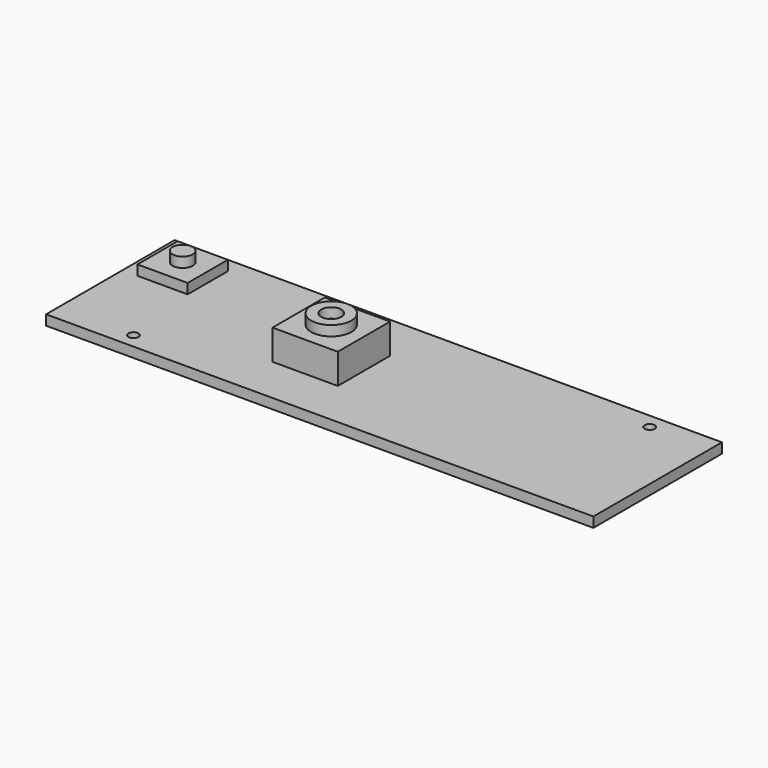
from build123d import *

# Parameters (mm, degrees)
BOX001_W          = 5
BOX001_H          = 5
BOX001_DEPTH      = 2
CYLINDER004_R     = 1
CYLINDER004_DEPTH = 3
CYLINDER002_R     = 0.5
CYLINDER002_DEPTH = 10
CYLINDER003_R     = 0.5
CYLINDER003_DEPTH = 10
BOX_W             = 54.5
BOX_H             = 16
BOX_DEPTH         = 1
BOX002_W          = 6.5
BOX002_H          = 6.5
BOX002_DEPTH      = 4
CYLINDER006_R     = 1
CYLINDER006_DEPTH = 5
CYLINDER005_R     = 2
CYLINDER005_DEPTH = 5


with BuildPart() as cube001:
    # Box001 → Box001 (new body)
    with BuildSketch(Plane(origin=(1.5, 9.5, 0), x_dir=(1, 0, 0), z_dir=(0, 0, 1))):
        with Locations((2.5, 2.5)):
            Rectangle(BOX001_W, BOX001_H)
    extrude(amount=BOX001_DEPTH)


with BuildPart() as cylinder004:
    # Cylinder004 → Cylinder004 (new body)
    with BuildSketch(Plane(origin=(4, 12, 0), x_dir=(1, 0, 0), z_dir=(0, 0, 1))):
        Circle(CYLINDER004_R)
    extrude(amount=CYLINDER004_DEPTH)


with BuildPart() as cylinder002:
    # Cylinder002 → Cylinder002 (new body)
    with BuildSketch(Plane(origin=(48.5, 14.5, 0), x_dir=(1, 0, 0), z_dir=(0, 0, 1))):
        Circle(CYLINDER002_R)
    extrude(amount=CYLINDER002_DEPTH)


with BuildPart() as fusion:
    # Cylinder003 → Cylinder003 (new body)
    with BuildSketch(Plane(origin=(7.5, 1.5, 0), x_dir=(1, 0, 0), z_dir=(0, 0, 1))):
        Circle(CYLINDER003_R)
    extrude(amount=CYLINDER003_DEPTH)

    # Fusion: union Cylinder002
    add(cylinder002.part)


with BuildPart() as cut:
    # Box → Box (new body)
    with BuildSketch(Plane.XY):
        with Locations((27.25, 8)):
            Rectangle(BOX_W, BOX_H)
    extrude(amount=BOX_DEPTH)

    # Cut: cut Fusion
    add(fusion.part, mode=Mode.SUBTRACT)


with BuildPart() as cube002:
    # Box002 → Box002 (new body)
    with BuildSketch(Plane(origin=(18.75, 4.75, 0), x_dir=(1, 0, 0), z_dir=(0, 0, 1))):
        with Locations((3.25, 3.25)):
            Rectangle(BOX002_W, BOX002_H)
    extrude(amount=BOX002_DEPTH)


with BuildPart() as cylinder006:
    # Cylinder006 → Cylinder006 (new body)
    with BuildSketch(Plane(origin=(22, 8, 0), x_dir=(1, 0, 0), z_dir=(0, 0, 1))):
        Circle(CYLINDER006_R)
    extrude(amount=CYLINDER006_DEPTH)


with BuildPart() as obj1:
    # Cylinder005 → Cylinder005 (new body)
    with BuildSketch(Plane(origin=(22, 8, 0), x_dir=(1, 0, 0), z_dir=(0, 0, 1))):
        Circle(CYLINDER005_R)
    extrude(amount=CYLINDER005_DEPTH)

    # Cut001: cut Cylinder006
    add(cylinder006.part, mode=Mode.SUBTRACT)

    # Fusion001: union Cube002
    add(cube002.part)

    # Fusion002: union Cube001, Cylinder004, Cut
    add(cube001.part)
    add(cylinder004.part)
    add(cut.part)


with BuildPart() as obj1_1:
    # Fusion002 placement: moved
    add(obj1.part.moved(Location((-27.25, 0, 0))))


solid = obj1_1.part
